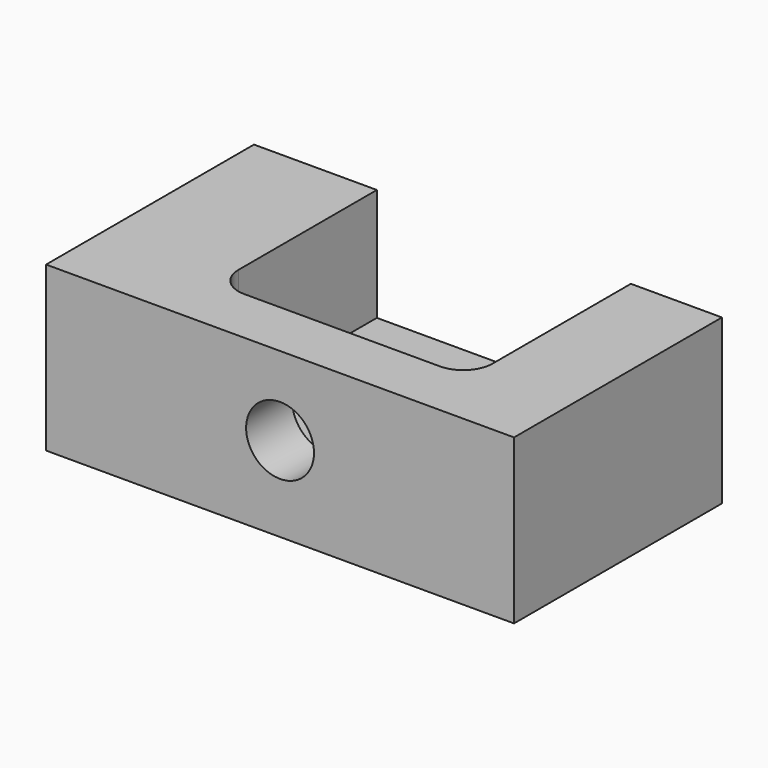
from build123d import *

# Parameters (mm, degrees)
F0_W     = 56.4152672887
F0_H     = 35.5571135879
F1_DEPTH = 101.6
F3_DEPTH = 24.4419761002
F4_R     = 7.3661777125
F5_DEPTH = 25.4


with BuildPart() as f1:
    # F0 (on Right) → F1 (new body)
    with BuildSketch(Plane.YZ):
        with Locations((28.2076336443, 17.7785567939)):
            Rectangle(F0_W, F0_H)
    extrude(amount=F1_DEPTH)

    # F2 (on face) → F3 (cut)
    with BuildSketch(Plane.XY.offset(35.5571135879)):
        with BuildLine():
            Line((81.8312615156, 18.8686089426), (81.8312615156, 56.4152672887))
            Line((81.8312615156, 56.4152672887), (26.6845934093, 56.4152672887))
            Line((26.6845934093, 56.4152672887), (26.6845934093, 18.8686089426))
            ThreePointArc((26.6845934093, 18.8686089426), (28.5444653488, 14.3784808821), (33.0345934093, 12.5186089426))
            Line((33.0345934093, 12.5186089426), (75.4812615156, 12.5186089426))
            ThreePointArc((75.4812615156, 12.5186089426), (79.9713895762, 14.3784808821), (81.8312615156, 18.8686089426))
        make_face()
    extrude(amount=-F3_DEPTH, mode=Mode.SUBTRACT)

    # F4 (on face) → F5 (cut)
    with BuildSketch(Plane.XZ):
        with Locations((50.8, 18.4632241726)):
            Circle(F4_R)
    extrude(amount=-F5_DEPTH, mode=Mode.SUBTRACT)


solid = f1.part
